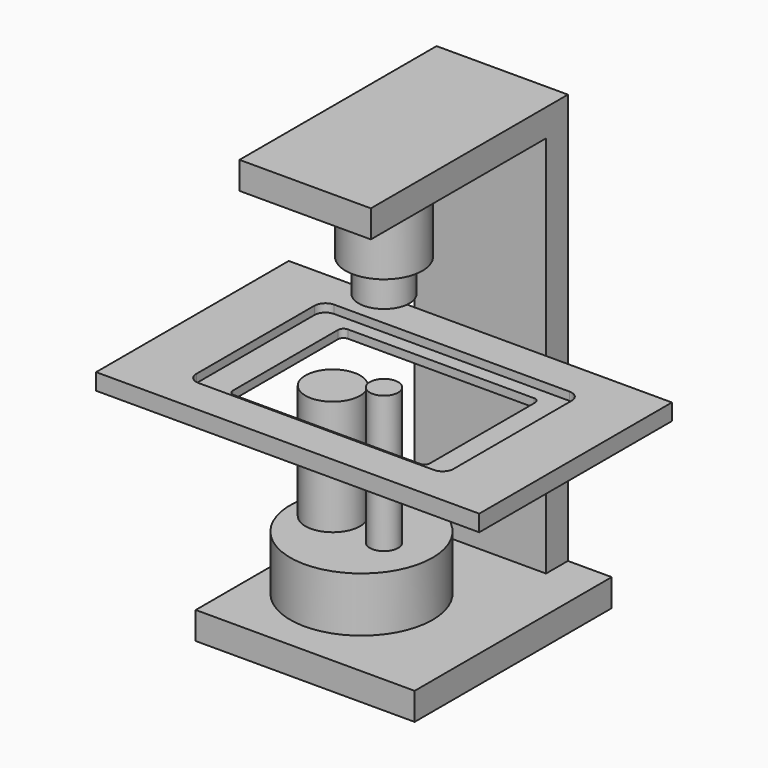
from build123d import *

# Parameters (mm, degrees)
F0_W          = 120
F0_H          = 400
F1_DEPTH      = 25
F2_W          = 120
F2_H          = 25
F3_DEPTH      = 200
F4_R          = 35
F5_DEPTH      = 70
F6_R          = 23.205
F7_DEPTH      = 30
F8_W          = 40
F8_H          = 25
F8_W_2        = 120
F9_DEPTH      = 200
F9_DEPTH_BACK = 25
F10_R         = 65
F11_DEPTH     = 50
F12_R         = 13
F13_DEPTH     = 125
F14_R         = 25
F15_DEPTH     = 105
F16_W         = 350
F16_H         = 220
F17_DEPTH     = 15
F18_W         = 215
F18_H         = 7.5
F18_W_2       = 10
F19_DEPTH     = 155
F20_W         = 180
F20_H         = 130
F20_R         = 13
F21_DEPTH     = 7.5
F22_R         = 5


with BuildPart() as f1:
    # F0 (on Front) → F1 (new body)
    with BuildSketch(Plane.XZ):
        Rectangle(F0_W, F0_H)
    extrude(amount=F1_DEPTH)

    # F2 (on face) → F3 (join)
    with BuildSketch(Plane.XZ.offset(25)):
        with Locations((0, 187.5)):
            Rectangle(F2_W, F2_H)
    extrude(amount=F3_DEPTH)

    # F4 (on face) → F5 (join)
    with BuildSketch(Plane(origin=(0, 0, 175), x_dir=(1, 0, 0), z_dir=(0, 0, -1))):
        with Locations((0, 135)):
            Circle(F4_R)
    extrude(amount=F5_DEPTH)

    # F6 (on face) → F7 (join)
    with BuildSketch(Plane(origin=(0, 0, 105), x_dir=(1, 0, 0), z_dir=(0, 0, -1))):
        with Locations((0, 135)):
            Circle(F6_R)
    extrude(amount=F7_DEPTH)

    # F8 (on face) → F9 (join, two sides)
    with BuildSketch(Plane.XZ.offset(25)) as f9_sk:
        with Locations((-80, -187.5)):
            Rectangle(F8_W, F8_H)
        with Locations((0, -187.5)):
            Rectangle(F8_W_2, F8_H)
        with Locations((80, -187.5)):
            Rectangle(F8_W, F8_H)
    extrude(amount=F9_DEPTH)
    extrude(f9_sk.sketch, amount=-F9_DEPTH_BACK)

    # F10 (on face) → F11 (join)
    with BuildSketch(Plane.XY.offset(-175)):
        with Locations((-23.4574452043, -131.4095705748)):
            Circle(F10_R)
    extrude(amount=F11_DEPTH)

    # F12 (on face) → F13 (join)
    with BuildSketch(Plane.XY.offset(-125)):
        with Locations((0, -135)):
            Circle(F12_R)
    extrude(amount=F13_DEPTH)

    # F14 (on face) → F15 (join)
    with BuildSketch(Plane.XY.offset(-125)):
        with Locations((-54.2105034057, -125.7144563701)):
            Circle(F14_R)
    extrude(amount=F15_DEPTH)

    # F16 (on Top) → F17 (join)
    with BuildSketch(Plane.XY):
        with Locations((0, -135)):
            Rectangle(F16_W, F16_H)
        with BuildLine():
            ThreePointArc((117.5, -202.5), (114.5710678119, -209.5710678119), (107.5, -212.5))
            Line((107.5, -212.5), (-107.5, -212.5))
            ThreePointArc((-107.5, -212.5), (-114.5710678119, -209.5710678119), (-117.5, -202.5))
            Line((-117.5, -202.5), (-117.5, -67.5))
            ThreePointArc((-117.5, -67.5), (-114.5710678119, -60.4289321881), (-107.5, -57.5))
            Line((-107.5, -57.5), (107.5, -57.5))
            ThreePointArc((107.5, -57.5), (114.5710678119, -60.4289321881), (117.5, -67.5))
            Line((117.5, -67.5), (117.5, -202.5))
        make_face(mode=Mode.SUBTRACT)
    extrude(amount=-F17_DEPTH)

    # F18 (on face) → F19 (join)
    with BuildSketch(Plane.XZ.offset(57.5)):
        with Locations((0, -11.25)):
            Rectangle(F18_W, F18_H)
        with Locations((-112.5, -11.25)):
            Rectangle(F18_W_2, F18_H)
        with Locations((112.5, -11.25)):
            Rectangle(F18_W_2, F18_H)
    extrude(amount=F19_DEPTH)

    # F20 (on face) → F21 (cut, through all)
    with BuildSketch(Plane.XY.offset(-7.5)):
        with Locations((0, -135)):
            Rectangle(F20_W, F20_H)
        with Locations((0, -135)):
            Circle(F20_R, mode=Mode.SUBTRACT)
    extrude(amount=-F21_DEPTH, mode=Mode.SUBTRACT)

    # F22
    f22_edges = [f1.edges().sort_by_distance(p)[0] for p in [
        (-90, -70, -11.25),
        (90, -70, -11.25),
        (-90, -200, -11.25),
        (90, -200, -11.25),
    ]]
    fillet(f22_edges, radius=F22_R)


solid = f1.part
